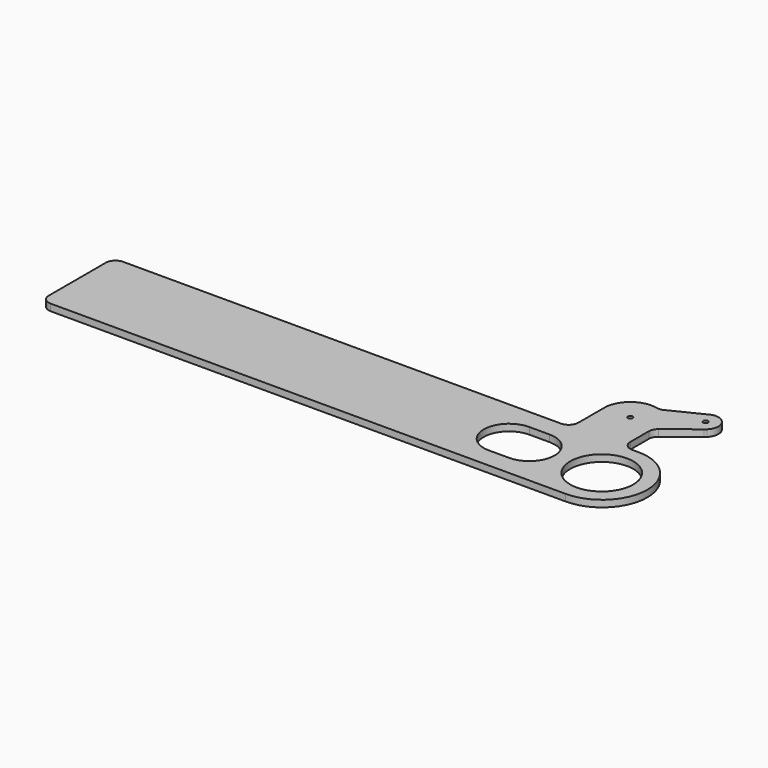
from build123d import *

# Parameters (mm, degrees)
F0_R     = 16.35
F0_R_2   = 1.25
F1_DEPTH = 3.5


with BuildPart() as f1:
    # F0 (on Top) → F1 (new body)
    with BuildSketch(Plane.XY):
        with BuildLine():
            ThreePointArc((-118.087944, -18.483081), (-116.623477, -22.018615), (-113.087944, -23.483081))
            Line((-113.087944, -23.483081), (154.055671, -23.483081))
            ThreePointArc((154.055671, -23.483081), (177.739071, 0.200008), (153.688095, 23.509721))
            ThreePointArc((153.688095, 23.509721), (153.629408, 23.508687), (153.570713, 23.508343))
            Line((153.570713, 23.508343), (151.117662, 23.508343))
            ThreePointArc((151.117662, 23.508343), (147.582128, 24.972809), (146.117662, 28.508343))
            Line((146.117662, 28.508343), (146.117662, 40.43658))
            ThreePointArc((146.117662, 40.43658), (146.619244, 42.619292), (148.023355, 44.364081))
            Line((148.023355, 44.364081), (162.493134, 55.764192))
            Line((162.493134, 55.764192), (163.489272, 56.549006))
            ThreePointArc((163.489272, 56.549006), (163.978244, 65.5632), (155.014432, 66.633185))
            Line((155.014432, 66.633185), (139.121962, 58.817696))
            ThreePointArc((139.121962, 58.817696), (137.471638, 58.335528), (135.755552, 58.440901))
            ThreePointArc((135.755552, 58.440901), (124.215423, 55.867), (119.134148, 45.190849))
            Line((119.134148, 45.190849), (119.134148, 28.508343))
            ThreePointArc((119.134148, 28.508343), (117.669682, 24.972809), (114.134148, 23.508343))
            Line((114.134148, 23.508343), (-113.087944, 23.508343))
            ThreePointArc((-113.087944, 23.508343), (-116.623477, 22.043877), (-118.087944, 18.508343))
            Line((-118.087944, 18.508343), (-118.087944, -18.483081))
        make_face()
        with BuildLine():
            ThreePointArc((105.981351, -13.13), (92.851351, 0), (105.981351, 13.13))
            Line((105.981351, 13.13), (116.481351, 13.13))
            ThreePointArc((116.481351, 13.13), (129.611351, 0), (116.481351, -13.13))
            Line((116.481351, -13.13), (105.981351, -13.13))
        make_face(mode=Mode.SUBTRACT)
        with Locations((154.055671, 0.016919)):
            Circle(F0_R, mode=Mode.SUBTRACT)
        with Locations((132.625611, 45.316919)):
            Circle(F0_R_2, mode=Mode.SUBTRACT)
        with Locations((158.925611, 61.316919)):
            Circle(F0_R_2, mode=Mode.SUBTRACT)
        with BuildLine():
            Line((163.489272, 56.549006), (162.493134, 55.764192))
            ThreePointArc((162.493134, 55.764192), (163.010096, 56.132618), (163.489272, 56.549006))
        make_face()
    extrude(amount=F1_DEPTH)


solid = f1.part
